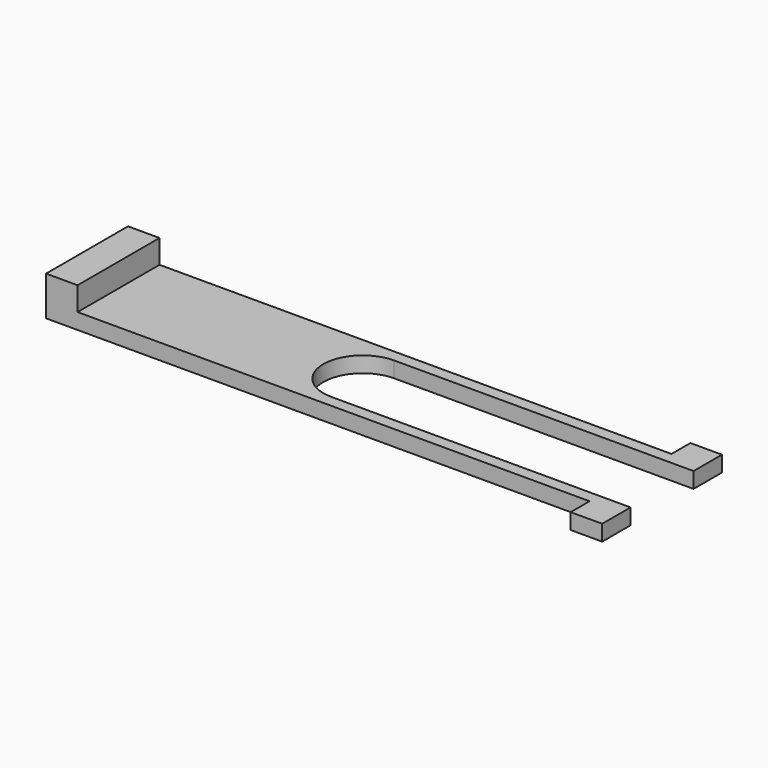
from build123d import *

# Parameters (mm, degrees)
SKETCH_W        = 73
SKETCH_H        = 19
PAD_DEPTH       = 5
SKETCH001_W     = 69
SKETCH001_H     = 3
POCKET_DEPTH    = 5.001
SKETCH002_W     = 69
SKETCH002_H     = 3
POCKET001_DEPTH = 19.001
POCKET002_DEPTH = 2.001


with BuildPart() as part:
    # Sketch → Pad (new body)
    with BuildSketch(Plane.XY):
        Rectangle(SKETCH_W, SKETCH_H)
    extrude(amount=PAD_DEPTH)

    # Sketch001 → Pocket (cut, through all)
    with BuildSketch(Plane.XY.offset(5)):
        with Locations((-2, 8)):
            Rectangle(SKETCH001_W, SKETCH001_H)
        with Locations((-2, -8)):
            Rectangle(SKETCH001_W, SKETCH001_H)
    extrude(amount=-POCKET_DEPTH, mode=Mode.SUBTRACT)

    # Sketch002 → Pocket001 (cut, through all)
    with BuildSketch(Plane.XZ.offset(9.5)):
        with Locations((2, 3.5)):
            Rectangle(SKETCH002_W, SKETCH002_H)
    extrude(amount=-POCKET001_DEPTH, mode=Mode.SUBTRACT)

    # Sketch003 → Pocket002 (cut, through all)
    with BuildSketch(Plane.XY.offset(2)):
        with BuildLine():
            Line((-1.5, 5), (36.5, 5))
            Line((36.5, 5), (36.5, -5))
            Line((36.5, -5), (-1.5, -5))
            ThreePointArc((-1.5, 5), (-6.5, 0), (-1.5, -5))
        make_face()
    extrude(amount=-POCKET002_DEPTH, mode=Mode.SUBTRACT)


solid = part.part
